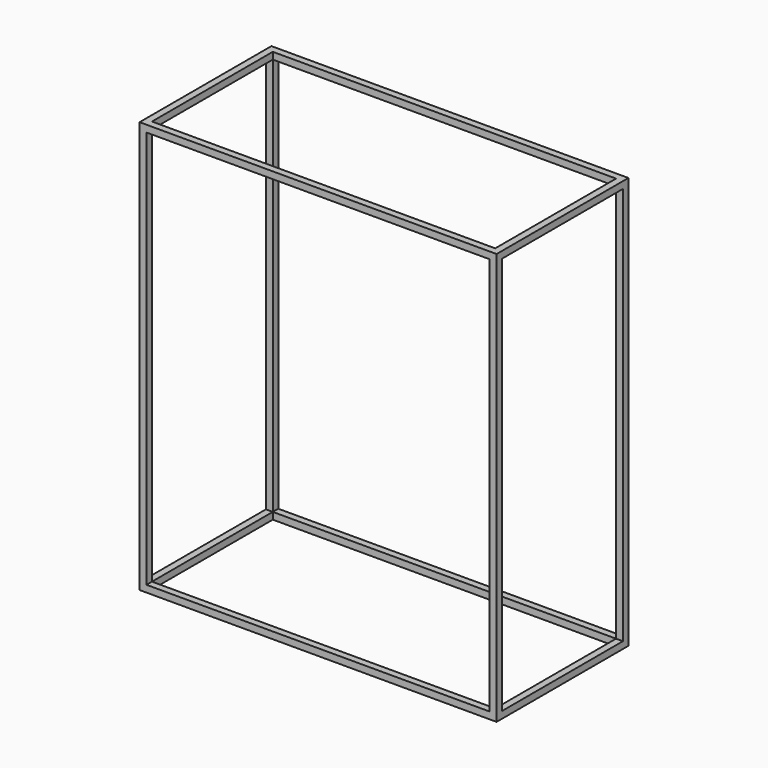
from build123d import *

# Parameters (mm, degrees)
F0_W     = 2600
F0_H     = 1200
F0_W_2   = 2500
F0_H_2   = 1100
F1_DEPTH = 50
F2_W     = 50
F2_H     = 50
F3_DEPTH = 2900
F4_W     = 2600
F4_H     = 1200
F4_W_2   = 2500
F4_H_2   = 1100
F5_DEPTH = 50


with BuildPart() as f1:
    # F0 (on Top) → F1 (new body)
    with BuildSketch(Plane.XY):
        Rectangle(F0_W, F0_H)
        Rectangle(F0_W_2, F0_H_2, mode=Mode.SUBTRACT)
    extrude(amount=F1_DEPTH)

    # F2 (on face) → F3 (join)
    with BuildSketch(Plane.XY.offset(50)):
        with Locations((-1275, 575)):
            Rectangle(F2_W, F2_H)
        with Locations((1275, 575)):
            Rectangle(F2_W, F2_H)
        with Locations((1275, -575)):
            Rectangle(F2_W, F2_H)
        with Locations((-1275, -575)):
            Rectangle(F2_W, F2_H)
    extrude(amount=F3_DEPTH)

    # F4 (on face) → F5 (join)
    with BuildSketch(Plane.XY.offset(2950)):
        Rectangle(F4_W, F4_H)
        Rectangle(F4_W_2, F4_H_2, mode=Mode.SUBTRACT)
    extrude(amount=F5_DEPTH)


solid = f1.part
